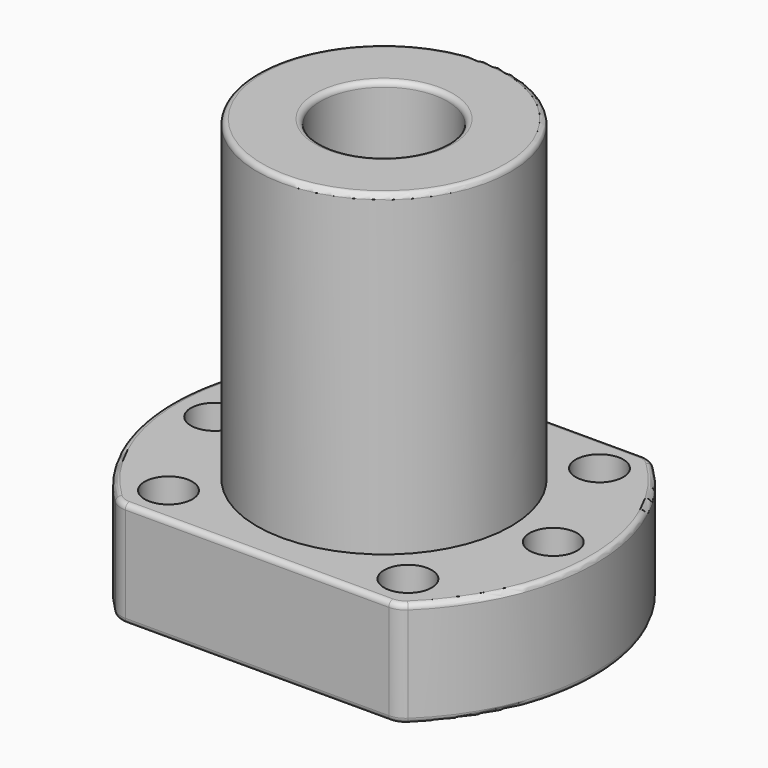
from build123d import *

# Parameters (mm, degrees)
F0_R     = 2.25
F0_R_2   = 6
F1_DEPTH = 10
F2_R     = 12
F2_R_2   = 6
F3_DEPTH = 30
F4_R     = 2
F5_R     = 0.5


with BuildPart() as f1:
    # F0 (on Top) → F1 (new body)
    with BuildSketch(Plane.XY):
        with BuildLine():
            Line((-13.228757, -15), (13.228757, -15))
            ThreePointArc((13.228757, -15), (20, 0), (13.228757, 15))
            Line((13.228757, 15), (-13.228757, 15))
            ThreePointArc((-13.228757, 15), (-20, 0), (-13.228757, -15))
        make_face()
        with Locations((-11.313708, -11.313708)):
            Circle(F0_R, mode=Mode.SUBTRACT)
        with Locations((-16, 0)):
            Circle(F0_R, mode=Mode.SUBTRACT)
        Circle(F0_R_2, mode=Mode.SUBTRACT)
        with Locations((11.313708, -11.313708)):
            Circle(F0_R, mode=Mode.SUBTRACT)
        with Locations((16, 0)):
            Circle(F0_R, mode=Mode.SUBTRACT)
        with Locations((-11.313708, 11.313708)):
            Circle(F0_R, mode=Mode.SUBTRACT)
        with Locations((11.313708, 11.313708)):
            Circle(F0_R, mode=Mode.SUBTRACT)
    extrude(amount=F1_DEPTH)

    # F2 (on face) → F3 (join)
    with BuildSketch(Plane.XY.offset(10)):
        Circle(F2_R)
        Circle(F2_R_2, mode=Mode.SUBTRACT)
    extrude(amount=F3_DEPTH)

    # F4
    f4_edges = [f1.edges().sort_by_distance(p)[0] for p in [
        (-13.228757, -15, 5),
        (13.228757, -15, 5),
        (13.228757, 15, 5),
        (-13.228757, 15, 5),
    ]]
    fillet(f4_edges, radius=F4_R)

    # F5
    f5_edges = [f1.edges().sort_by_distance(p)[0] for p in [
        (-12, 0, 40),
        (20, 0, 10),
        (20, 0, 0),
        (-6, 0, 40),
        (-6, 0, 0),
    ]]
    fillet(f5_edges, radius=F5_R)


solid = f1.part
